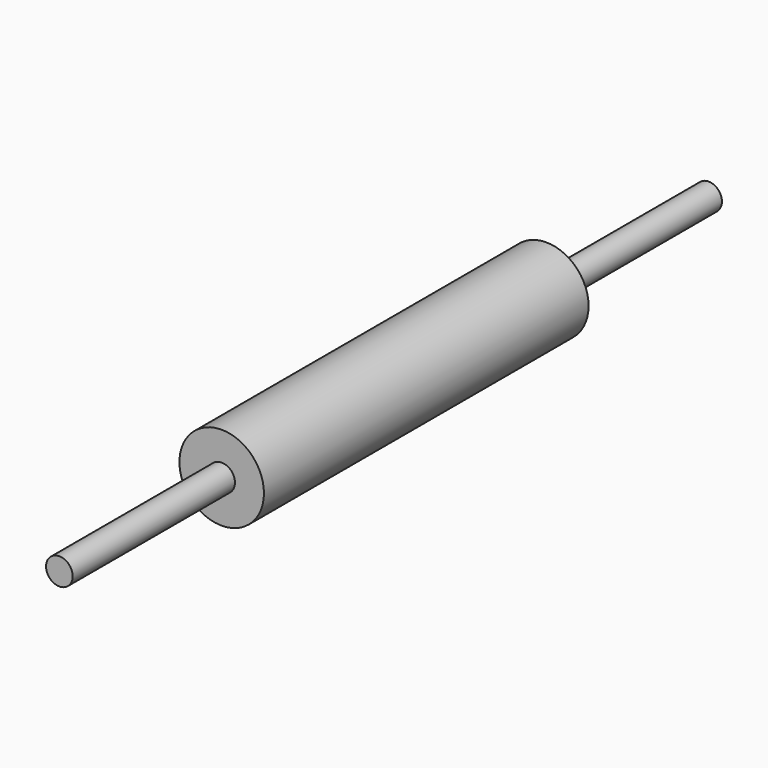
from build123d import *

# Parameters (mm, degrees)
F0_R     = 31.75
F0_R_2   = 10
F1_DEPTH = 304.8
F2_DEPTH = 152.4
F3_DEPTH = 609.6


with BuildPart() as f1:
    # F0 (on Front) → F1 (new body)
    with BuildSketch(Plane.XZ):
        Circle(F0_R)
        Circle(F0_R_2, mode=Mode.SUBTRACT)
        Circle(F0_R_2)
    extrude(amount=-F1_DEPTH)

    # F0 (on Front) → F2 (join)
    with BuildSketch(Plane.XZ):
        Circle(F0_R_2)
    extrude(amount=F2_DEPTH)

    # F3 (add): a face of the model
    f3_faces = [f1.faces().sort_by_distance(p)[0] for p in [
        (0, -152.4, 0),
    ]]
    extrude(f3_faces, amount=-F3_DEPTH)


solid = f1.part
